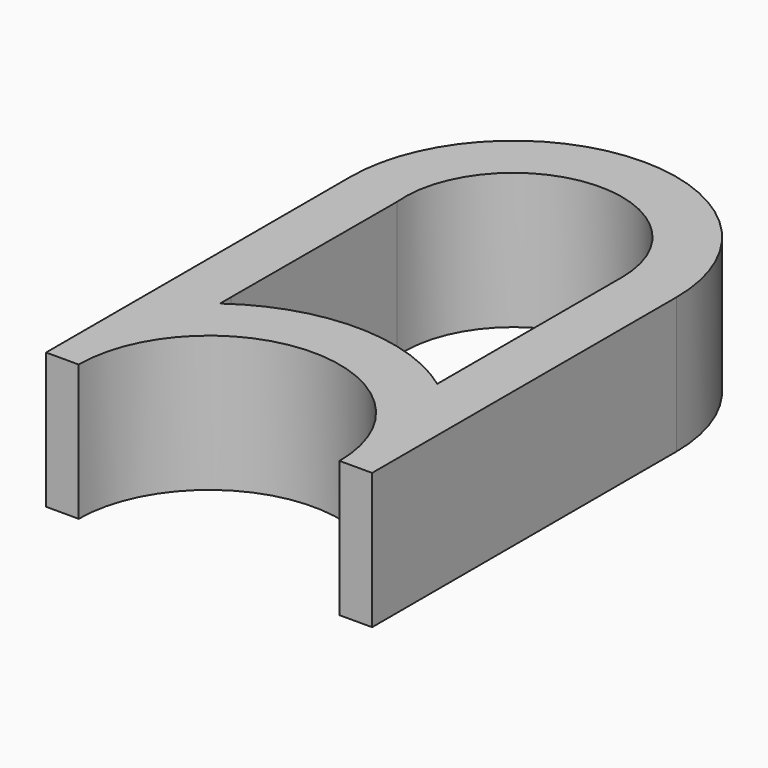
from build123d import *

# Parameters (mm, degrees)
F1_DEPTH = 25


with BuildPart() as f1:
    # F0 (on Top) → F1 (new body)
    with BuildSketch(Plane.XY):
        with BuildLine():
            Line((60.962365, -19.637098), (66.962365, -19.637098))
            Line((66.962365, -19.637098), (66.962365, 50.362902))
            ThreePointArc((66.962365, 50.362902), (58.175569, 71.576105), (36.962365, 80.362902))
            ThreePointArc((36.962365, 80.362902), (15.749162, 71.576105), (6.962365, 50.362902))
            Line((6.962365, 50.362902), (6.962365, -19.637098))
            Line((6.962365, -19.637098), (12.962365, -19.637098))
            ThreePointArc((12.962365, -19.637098), (36.962365, 4.362902), (60.962365, -19.637098))
        make_face()
        with BuildLine():
            Line((56.962365, 18.064654), (56.962365, 7.858356))
            ThreePointArc((56.962365, 7.858356), (36.962365, 14.362902), (16.962365, 7.858356))
            Line((16.962365, 7.858356), (16.962365, 10.361118))
            Line((16.962365, 10.361118), (17.049031, 48.503033))
            ThreePointArc((17.049031, 48.503033), (36.031422, 70.341224), (56.962365, 50.362902))
            Line((56.962365, 50.362902), (56.962365, 18.064654))
        make_face(mode=Mode.SUBTRACT)
    extrude(amount=F1_DEPTH)


solid = f1.part
